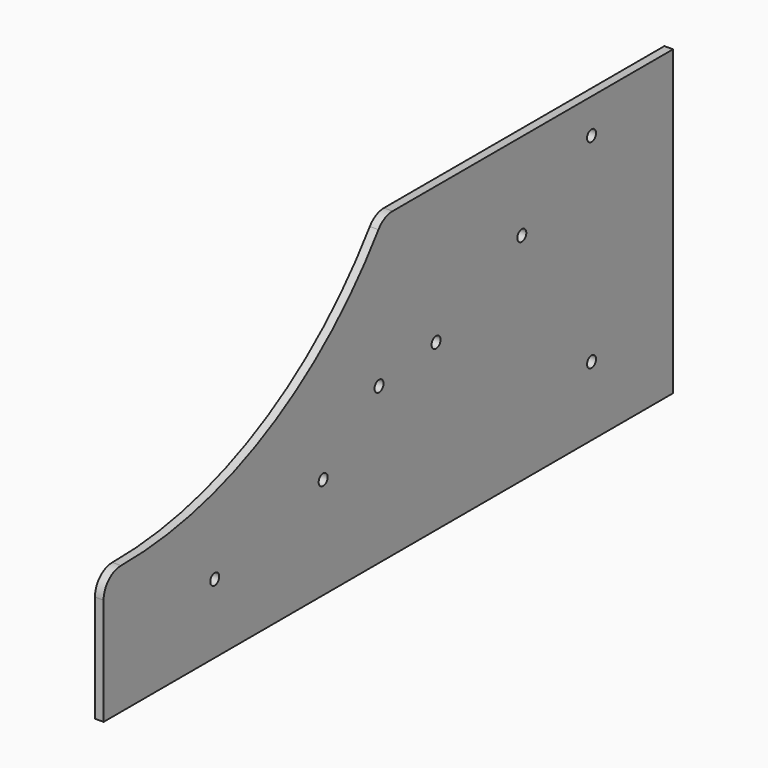
from build123d import *

# Parameters (mm, degrees)
F0_R     = 1.651
F1_DEPTH = 2.54


with BuildPart() as f1:
    # F0 (on Right) → F1 (new body)
    with BuildSketch(Plane.YZ):
        with BuildLine():
            Line((-102.713143, 31.453995), (-102.713143, 0))
            Line((-102.713143, 0), (106.254982, 0))
            Line((106.254982, 0), (106.254982, 88.9))
            Line((106.254982, 88.9), (3.335191, 88.9))
            ThreePointArc((3.335191, 88.9), (0.421709, 88.192174), (-1.842249, 86.226495))
            ThreePointArc((-1.842249, 86.226495), (-43.161917, 50.461474), (-96.324282, 37.803877))
            ThreePointArc((-96.324282, 37.803877), (-100.839511, 35.957842), (-102.713143, 31.453995))
        make_face()
        with Locations((-61.93045, 20.32)):
            Circle(F0_R, mode=Mode.SUBTRACT)
        with Locations((-22.15405, 29.865129)):
            Circle(F0_R, mode=Mode.SUBTRACT)
        with Locations((76.349117, 20.32)):
            Circle(F0_R, mode=Mode.SUBTRACT)
        with Locations((-1.634137, 45.723073)):
            Circle(F0_R, mode=Mode.SUBTRACT)
        with Locations((19.295463, 48.529024)):
            Circle(F0_R, mode=Mode.SUBTRACT)
        with Locations((50.761356, 63.32873)):
            Circle(F0_R, mode=Mode.SUBTRACT)
        with Locations((76.349117, 78.74)):
            Circle(F0_R, mode=Mode.SUBTRACT)
    extrude(amount=F1_DEPTH)


solid = f1.part
